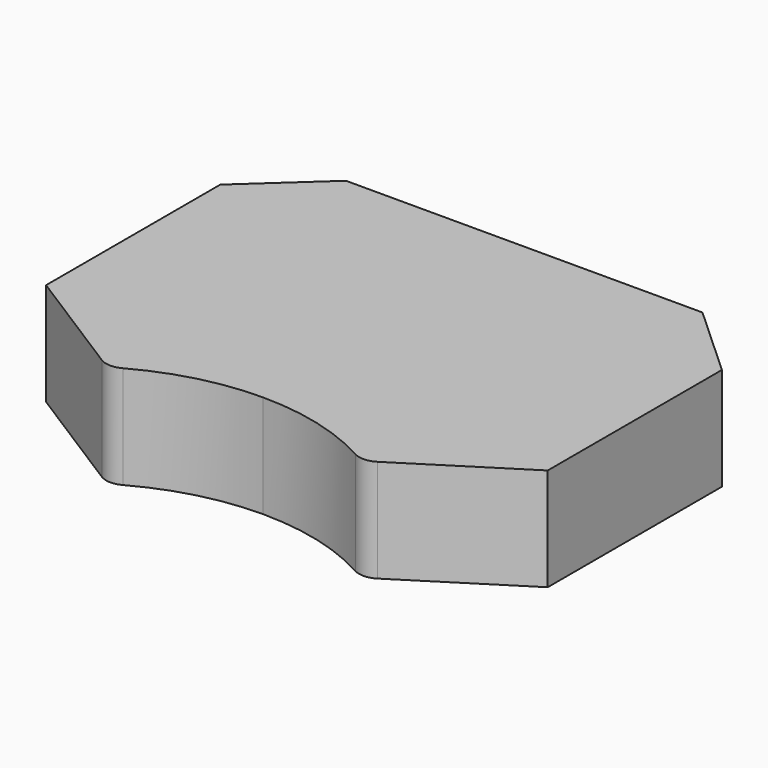
from build123d import *

# Parameters (mm, degrees)
F1_DEPTH = 4.32


with BuildPart() as f1:
    # F0 (on Top) → F1 (new body)
    with BuildSketch(Plane.XY):
        with BuildLine():
            Line((10.54, 4.83), (7.49, 7.62))
            Line((7.49, 7.62), (0, 7.62))
            Line((0, 7.62), (-7.49, 7.62))
            Line((-7.49, 7.62), (-10.54, 4.83))
            Line((-10.54, 4.83), (-10.54, -4.32))
            Line((-10.54, -4.32), (-5.792012, -7.329828))
            ThreePointArc((-5.792012, -7.329828), (-5.34271, -7.467721), (-4.885821, -7.357543))
            ThreePointArc((-4.885821, -7.357543), (-2.522532, -6.419427), (0, -6.1))
            ThreePointArc((0, -6.1), (2.522532, -6.419427), (4.885821, -7.357543))
            ThreePointArc((4.885821, -7.357543), (5.34271, -7.467721), (5.792012, -7.329828))
            Line((5.792012, -7.329828), (10.54, -4.32))
            Line((10.54, -4.32), (10.54, 4.83))
        make_face()
    extrude(amount=-F1_DEPTH)


solid = f1.part
